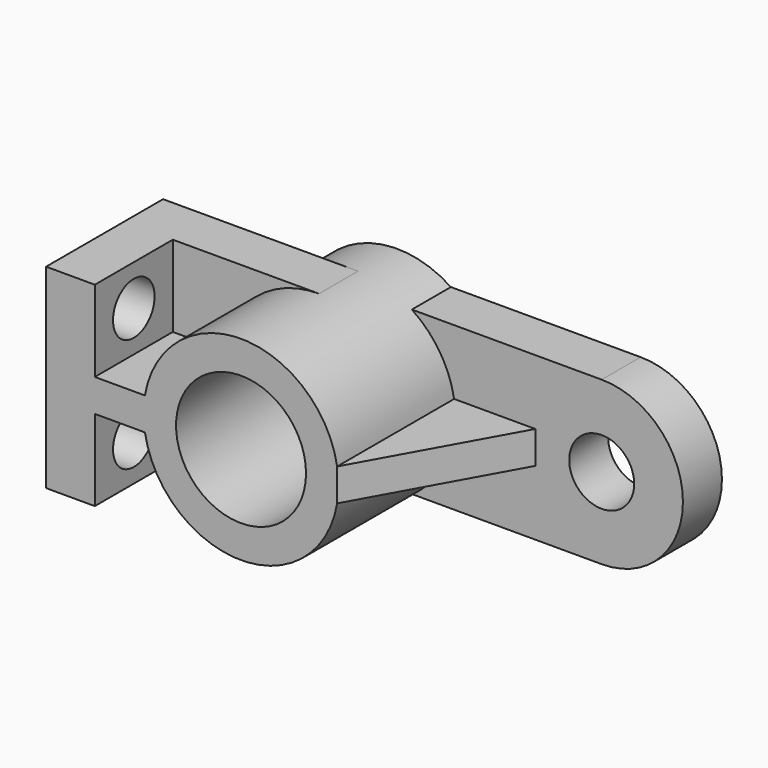
from build123d import *

# Parameters (mm, degrees)
F0_W      = 60
F0_H      = 60
F1_DEPTH  = 45
F2_W      = 45
F2_H      = 25
F3_DEPTH  = 30
F4_R      = 8
F5_DEPTH  = 15
F6_R      = 8
F7_DEPTH  = 25
F8_R      = 30
F9_DEPTH  = 60
F10_R     = 20
F11_DEPTH = 60
F13_DEPTH = 15
F14_R     = 10
F15_DEPTH = 25
F17_DEPTH = 60
F19_DEPTH = 25


with BuildPart() as f1:
    # F0 (on Front) → F1 (new body)
    with BuildSketch(Plane.XZ):
        with Locations((-30, 30)):
            Rectangle(F0_W, F0_H)
        with Locations((-30, 30)):
            Rectangle(F0_W, F0_H)
    extrude(amount=F1_DEPTH)

    # F2 (on face) → F3 (cut)
    with BuildSketch(Plane.XZ.offset(45)):
        with Locations((-22.5, 12.5)):
            Rectangle(F2_W, F2_H)
        with Locations((-22.5, 47.5)):
            Rectangle(F2_W, F2_H)
    extrude(amount=-F3_DEPTH, mode=Mode.SUBTRACT)

    # F4 (on face) → F5 (cut)
    with BuildSketch(Plane.YZ.offset(-45)):
        with Locations((-30, 12.5)):
            Circle(F4_R)
    extrude(amount=-F5_DEPTH, mode=Mode.SUBTRACT)

    # F6 (on face) → F7 (cut)
    with BuildSketch(Plane.YZ.offset(-45)):
        with Locations((-30, 47.5)):
            Circle(F6_R)
    extrude(amount=-F7_DEPTH, mode=Mode.SUBTRACT)

    # F8 (on face) → F9 (join)
    with BuildSketch(Plane.XZ.offset(45)):
        with Locations((0, 30)):
            Circle(F8_R)
    extrude(amount=-F9_DEPTH)

    # F10 (on face) → F11 (cut)
    with BuildSketch(Plane.XZ.offset(45)):
        with Locations((0, 30)):
            Circle(F10_R)
    extrude(amount=-F11_DEPTH, mode=Mode.SUBTRACT)

    # F12 (on face) → F13 (join)
    with BuildSketch(Plane(origin=(0, 15, 0), x_dir=(-1, 0, 0), z_dir=(0, 1, 0))):
        with BuildLine():
            Line((-75, 5), (-75, 30))
            Line((-75, 30), (-75, 55))
            ThreePointArc((-75, 55), (-100, 30), (-75, 5))
        make_face()
        with BuildLine():
            Line((-75, 55), (-75, 30))
            Line((-75, 30), (-75, 5))
            Line((-75, 5), (-16.5831239518, 5))
            ThreePointArc((-16.5831239518, 5), (-30, 30), (-16.5831239518, 55))
            Line((-16.5831239518, 55), (-75, 55))
        make_face()
    extrude(amount=-F13_DEPTH)

    # F14 (on face) → F15 (cut)
    with BuildSketch(Plane.XZ):
        with Locations((75, 30)):
            Circle(F14_R)
    extrude(amount=-F15_DEPTH, mode=Mode.SUBTRACT)

    # F16 (on face) → F17 (join)
    with BuildSketch(Plane(origin=(0, 15, 0), x_dir=(-1, 0, 0), z_dir=(0, 1, 0))):
        with BuildLine():
            Line((-29.5803989155, 25), (-29.5803989155, 35))
            ThreePointArc((-29.5803989155, 35), (-30, 30), (-29.5803989155, 25))
        make_face()
        with BuildLine():
            ThreePointArc((-29.5803989155, 25), (-30, 30), (-29.5803989155, 35))
            Line((-29.5803989155, 35), (-54.5803989155, 35))
            Line((-54.5803989155, 35), (-54.5803989155, 25))
            Line((-54.5803989155, 25), (-29.5803989155, 25))
        make_face()
    extrude(amount=-F17_DEPTH)

    # F18 (on face) → F19 (cut)
    with BuildSketch(Plane(origin=(0, 0, 25), x_dir=(1, 0, 0), z_dir=(0, 0, -1))):
        Polygon((54.5803989155, 45), (29.5803989155, 45), (54.5803989155, 0), align=None)
    extrude(amount=-F19_DEPTH, mode=Mode.SUBTRACT)


solid = f1.part
